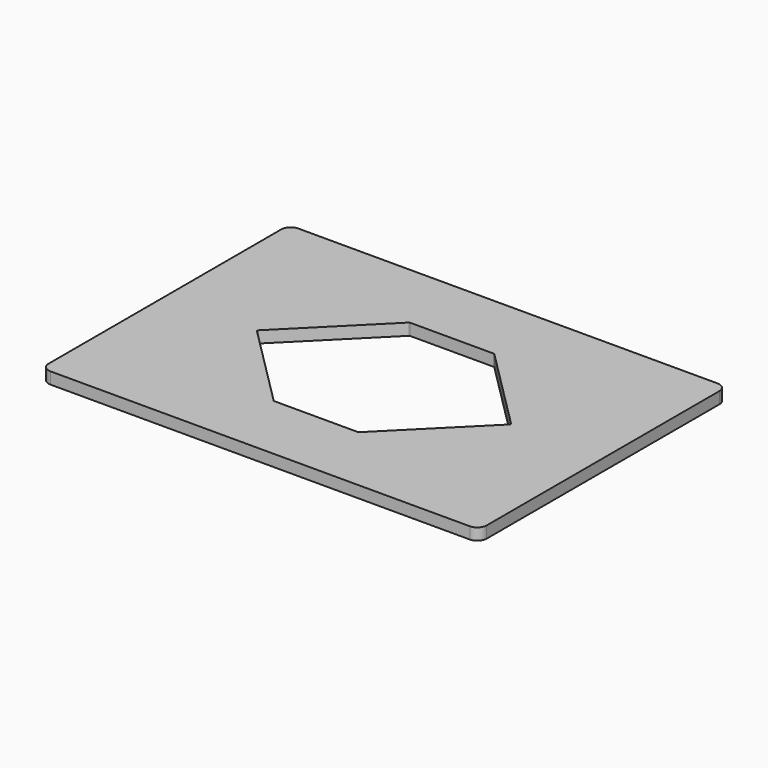
from build123d import *

# Parameters (mm, degrees)
F0_W     = 238.125
F0_H     = 168.275
F1_DEPTH = 6.35
F2_R     = 5.08
F4_DEPTH = 25.4
F6_DEPTH = 25.4
F7_R     = 0.7874


with BuildPart() as f1:
    # F0 (on Top) → F1 (new body)
    with BuildSketch(Plane.XY):
        Rectangle(F0_W, F0_H)
    extrude(amount=F1_DEPTH)

    # F2
    f2_edges = [f1.edges().sort_by_distance(p)[0] for p in [
        (119.0625, 84.1375, 3.175),
        (119.0625, -84.1375, 3.175),
        (-119.0625, -84.1375, 3.175),
        (-119.0625, 84.1375, 3.175),
    ]]
    fillet(f2_edges, radius=F2_R)

    # F3 (on face) → F4 (cut)
    with BuildSketch(Plane.XY.offset(6.35)):
        Polygon((22.479, 44.901281), (-22.479, 44.901281), (-67.380281, 0), (-22.479, -44.901281), (22.479, -44.901281), (67.380281, 0), align=None)
    extrude(amount=-F4_DEPTH, mode=Mode.SUBTRACT)

    # F5 (on face) → F6 (cut)
    with BuildSketch(Plane.XY.offset(6.35)):
        Polygon((23.005051, 46.171281), (-23.005051, 46.171281), (-69.176332, 0), (-23.005051, -46.171281), (23.005051, -46.171281), (69.176332, 0), align=None)
    extrude(amount=-F6_DEPTH, mode=Mode.SUBTRACT)

    # F7
    f7_edges = [f1.edges().sort_by_distance(p)[0] for p in [
        (-23.005051, 46.171281, 3.175),
        (23.005051, 46.171281, 3.175),
        (-69.176332, 0, 3.175),
        (-23.005051, -46.171281, 3.175),
        (23.005051, -46.171281, 3.175),
        (69.176332, 0, 3.175),
    ]]
    fillet(f7_edges, radius=F7_R)


solid = f1.part
